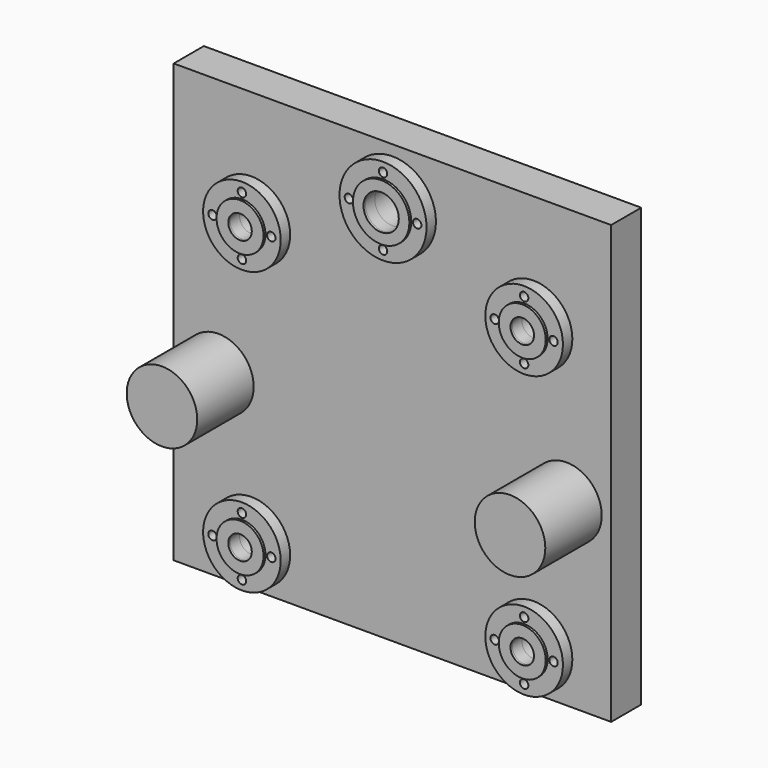
from build123d import *

# Parameters (mm, degrees)
F0_W      = 690
F0_H      = 350
F0_H_2    = 200
F1_DEPTH  = 80
F2_R      = 25
F2_R_2    = 75
F3_DEPTH  = 100
F4_R      = 75
F5_DEPTH  = 150
F6_R      = 82.5
F6_R_2    = 9
F6_R_3    = 25
F7_DEPTH  = 25
F8_R      = 50
F8_R_2    = 25
F9_DEPTH  = 5
F10_R     = 75
F11_DEPTH = 25
F12_R     = 37.5
F13_DEPTH = 100
F14_R     = 92.5
F14_R_2   = 9
F14_R_3   = 37.5
F15_DEPTH = 25
F16_R     = 60
F16_R_2   = 37.5
F17_DEPTH = 5
F18_W     = 930
F18_H     = 1000
F19_DEPTH = 100
F20_R     = 7
F21_DEPTH = 50


with BuildPart() as f1:
    # F0 (on Front) → F1 (new body)
    with BuildSketch(Plane.XZ):
        Polygon((345, -965), (465, -965), (465, 965), (-465, 965), (-465, -965), (-345, -965), (-345, -765), (345, -765), align=None)
        with Locations((0, -470)):
            Rectangle(F0_W, F0_H, mode=Mode.SUBTRACT)
        with Locations((0, -75)):
            Rectangle(F0_W, F0_H_2, mode=Mode.SUBTRACT)
    extrude(amount=F1_DEPTH)

    # F2 (on face) → F3 (cut)
    with BuildSketch(Plane.XZ.offset(80)):
        with Locations((-300, 125)):
            Circle(F2_R)
        with Locations((0, 425)):
            Circle(F2_R_2)
        with Locations((-300, 725)):
            Circle(F2_R)
        with Locations((300, 125)):
            Circle(F2_R)
        with Locations((300, 725)):
            Circle(F2_R)
    extrude(amount=-F3_DEPTH, mode=Mode.SUBTRACT)

    # F4 (on face) → F5 (join)
    with BuildSketch(Plane.XZ.offset(80)):
        with Locations((-370, 415)):
            Circle(F4_R)
        with Locations((370, 415)):
            Circle(F4_R)
    extrude(amount=F5_DEPTH)

    # F6 (on face) → F7 (join)
    with BuildSketch(Plane.XZ.offset(80)):
        with Locations((-300, 725)):
            Circle(F6_R)
        with Locations((-300, 662.5)):
            Circle(F6_R_2, mode=Mode.SUBTRACT)
        with Locations((-362.5, 725)):
            Circle(F6_R_2, mode=Mode.SUBTRACT)
        with Locations((-300, 725)):
            Circle(F6_R_3, mode=Mode.SUBTRACT)
        with Locations((-300, 787.5)):
            Circle(F6_R_2, mode=Mode.SUBTRACT)
        with Locations((-237.5, 725)):
            Circle(F6_R_2, mode=Mode.SUBTRACT)
        with Locations((-300, 125)):
            Circle(F6_R)
        with Locations((-300, 62.5)):
            Circle(F6_R_2, mode=Mode.SUBTRACT)
        with Locations((-362.5, 125)):
            Circle(F6_R_2, mode=Mode.SUBTRACT)
        with Locations((-300, 125)):
            Circle(F6_R_3, mode=Mode.SUBTRACT)
        with Locations((-237.5, 125)):
            Circle(F6_R_2, mode=Mode.SUBTRACT)
        with Locations((-300, 187.5)):
            Circle(F6_R_2, mode=Mode.SUBTRACT)
        with Locations((300, 725)):
            Circle(F6_R)
        with Locations((300, 662.5)):
            Circle(F6_R_2, mode=Mode.SUBTRACT)
        with Locations((237.5, 725)):
            Circle(F6_R_2, mode=Mode.SUBTRACT)
        with Locations((300, 725)):
            Circle(F6_R_3, mode=Mode.SUBTRACT)
        with Locations((362.5, 725)):
            Circle(F6_R_2, mode=Mode.SUBTRACT)
        with Locations((300, 787.5)):
            Circle(F6_R_2, mode=Mode.SUBTRACT)
        with Locations((300, 125)):
            Circle(F6_R)
        with Locations((237.5, 125)):
            Circle(F6_R_2, mode=Mode.SUBTRACT)
        with Locations((300, 62.5)):
            Circle(F6_R_2, mode=Mode.SUBTRACT)
        with Locations((300, 125)):
            Circle(F6_R_3, mode=Mode.SUBTRACT)
        with Locations((362.5, 125)):
            Circle(F6_R_2, mode=Mode.SUBTRACT)
        with Locations((300, 187.5)):
            Circle(F6_R_2, mode=Mode.SUBTRACT)
    extrude(amount=F7_DEPTH)

    # F8 (on face) → F9 (join)
    with BuildSketch(Plane.XZ.offset(105)):
        with Locations((-300, 725)):
            Circle(F8_R)
        with Locations((-300, 725)):
            Circle(F8_R_2, mode=Mode.SUBTRACT)
        with Locations((-300, 125)):
            Circle(F8_R)
        with Locations((-300, 125)):
            Circle(F8_R_2, mode=Mode.SUBTRACT)
        with Locations((300, 725)):
            Circle(F8_R)
        with Locations((300, 725)):
            Circle(F8_R_2, mode=Mode.SUBTRACT)
        with Locations((300, 125)):
            Circle(F8_R)
        with Locations((300, 125)):
            Circle(F8_R_2, mode=Mode.SUBTRACT)
    extrude(amount=F9_DEPTH)

    # F10 (on face) → F11 (join)
    with BuildSketch(Plane.XZ.offset(80)):
        with Locations((0, 425)):
            Circle(F10_R)
    extrude(amount=-F11_DEPTH)

    # F12 (on face) → F13 (cut)
    with BuildSketch(Plane.XZ.offset(80)):
        with Locations((0, 850)):
            Circle(F12_R)
    extrude(amount=-F13_DEPTH, mode=Mode.SUBTRACT)

    # F14 (on face) → F15 (join)
    with BuildSketch(Plane.XZ.offset(80)):
        with Locations((0, 850)):
            Circle(F14_R)
        with Locations((-72.5, 850)):
            Circle(F14_R_2, mode=Mode.SUBTRACT)
        with Locations((0, 777.5)):
            Circle(F14_R_2, mode=Mode.SUBTRACT)
        with Locations((0, 850)):
            Circle(F14_R_3, mode=Mode.SUBTRACT)
        with Locations((0, 922.5)):
            Circle(F14_R_2, mode=Mode.SUBTRACT)
        with Locations((72.5, 850)):
            Circle(F14_R_2, mode=Mode.SUBTRACT)
    extrude(amount=F15_DEPTH)

    # F16 (on face) → F17 (join)
    with BuildSketch(Plane.XZ.offset(105)):
        with Locations((0, 850)):
            Circle(F16_R)
        with Locations((0, 850)):
            Circle(F16_R_2, mode=Mode.SUBTRACT)
    extrude(amount=F17_DEPTH)

    # F18 (on face) → F19 (cut)
    with BuildSketch(Plane.XZ.offset(80)):
        with Locations((0, -465)):
            Rectangle(F18_W, F18_H)
    extrude(amount=-F19_DEPTH, mode=Mode.SUBTRACT)

    # F20 (on face) → F21 (cut)
    with BuildSketch(Plane(origin=(0, 0, 35), x_dir=(1, 0, 0), z_dir=(0, 0, -1))):
        with Locations((-400, 40)):
            Circle(F20_R)
        with Locations((400, 40)):
            Circle(F20_R)
    extrude(amount=-F21_DEPTH, mode=Mode.SUBTRACT)


solid = f1.part
